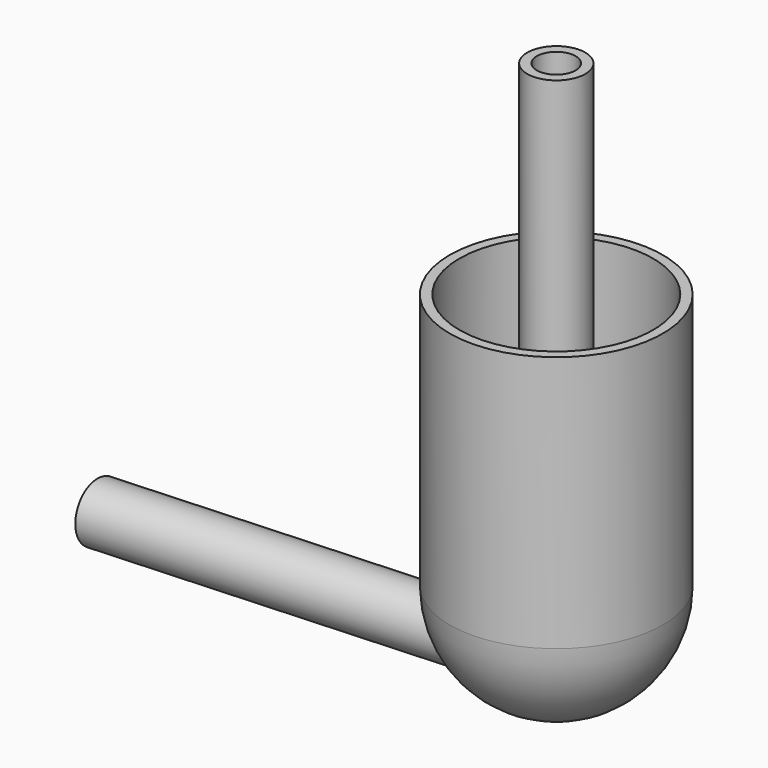
from build123d import *

# Parameters (mm, degrees)
F2_T     = -1
F3_R     = 3
F3_R_2   = 2
F4_DEPTH = 47.5
F8_R     = 3
F9_DEPTH = 47.5
F13_T    = -1


with BuildPart() as f1:
    # F0 (on Front) → F1 (revolve)
    with BuildSketch(Plane.XZ):
        with BuildLine():
            Line((0, 0), (0, 26.5))
            Line((0, 26.5), (-11, 26.5))
            Line((-11, 26.5), (-11, 0))
            ThreePointArc((-11, 0), (-7.7781745931, -7.7781745931), (0, -11))
            Line((0, -11), (0, 0))
        make_face()
    revolve(axis=Axis((0, 0, 13.25), (0, 0, 1)))

    # F2
    f2_openings = [f1.faces().sort_by_distance(p)[0] for p in [
        (0, 0, 26.5),
    ]]
    offset(amount=F2_T, openings=f2_openings)


with BuildPart() as f4:
    # F3 (on Top) → F4 (new body)
    with BuildSketch(Plane.XY):
        Circle(F3_R)
        Circle(F3_R_2, mode=Mode.SUBTRACT)
    extrude(amount=F4_DEPTH)


with BuildPart() as f9:
    # F8 (on offset) → F9 (new body)
    with BuildSketch(Plane(origin=(-0.0448633716, 0, -0.0015666635), x_dir=(0, -1, 0), z_dir=(-0.999390827, 0, -0.0348994967))):
        with Locations((0, -7)):
            Circle(F8_R)
    extrude(amount=F9_DEPTH)


with BuildPart() as f1_1:
    add(f1.part)

    # F10: cut F9
    add(f9.part, mode=Mode.SUBTRACT)


with BuildPart() as f11:
    # F0 (on Front) → F11 (revolve)
    with BuildSketch(Plane.XZ):
        with BuildLine():
            Line((0, 0), (0, 26.5))
            Line((0, 26.5), (-11, 26.5))
            Line((-11, 26.5), (-11, 0))
            ThreePointArc((-11, 0), (-7.7781745931, -7.7781745931), (0, -11))
            Line((0, -11), (0, 0))
        make_face()
    revolve(axis=Axis((0, 0, 13.25), (0, 0, 1)))


with BuildPart() as f9_1:
    add(f9.part)

    # F12: cut F11
    add(f11.part, mode=Mode.SUBTRACT)

    # F13
    f13_openings = [f9_1.faces().sort_by_distance(p)[0] for p in [
        (-47.271631, 0, -8.655029),
        (-7.729963, -3e-06, -7.826089),
    ]]
    offset(amount=F13_T, openings=f13_openings, kind=Kind.INTERSECTION)


solid = Compound([f4.part, f1_1.part, f9_1.part])
